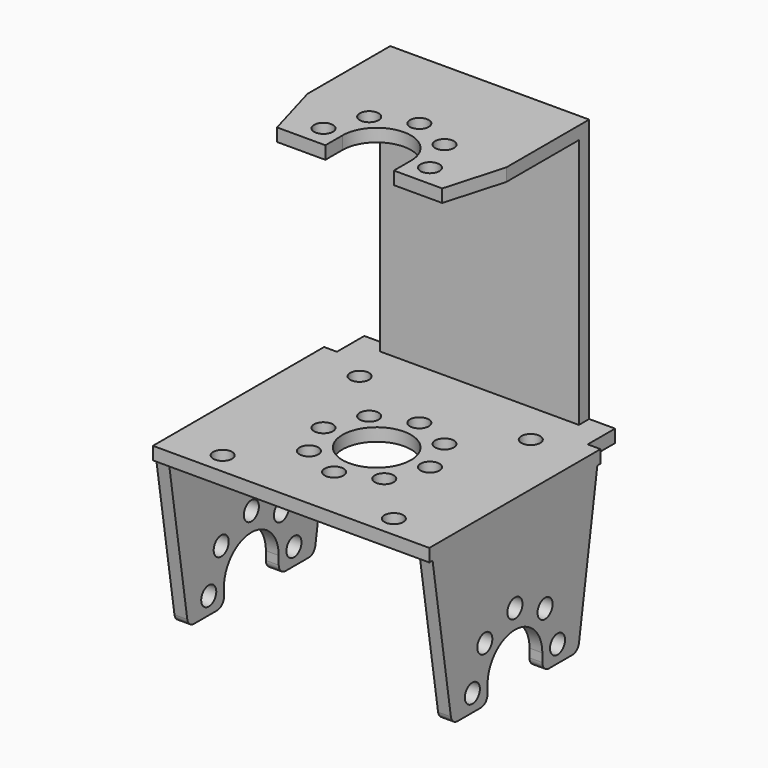
from build123d import *

# Parameters (mm, degrees)
F1_DEPTH  = 25
F2_R      = 1.1
F3_DEPTH  = 32.301
F4_R      = 1.1
F4_R_2    = 4
F5_DEPTH  = 1.5
F6_R      = 1
F7_W      = 29.3
F7_H      = 1.5
F8_DEPTH  = 4
F9_W      = 29.3
F9_H      = 1.5
F10_DEPTH = 30.8
F11_W     = 29.3
F11_H     = 1.5
F12_DEPTH = 20
F13_R     = 1.1
F14_DEPTH = 1.5
F16_DEPTH = 30.8


with BuildPart() as f1:
    # F0 (on Front) → F1 (new body)
    with BuildSketch(Plane.XZ):
        Polygon((0, 19.5), (0, 0), (1.5, 0), (1.5, 18), (30.8, 18), (30.8, 0), (32.3, 0), (32.3, 19.5), align=None)
    extrude(amount=F1_DEPTH)

    # F2 (on face) → F3 (cut, through all)
    with BuildSketch(Plane(origin=(0, 0, 0), x_dir=(0, -1, 0), z_dir=(-1, 0, 0))):
        with BuildLine():
            Line((16.5, 0), (16.5, 2))
            ThreePointArc((16.5, 2), (12.5, 6), (8.5, 2))
            Line((8.5, 2), (8.5, 0))
            Line((8.5, 0), (16.5, 0))
        make_face()
        with Locations((18.7225396744, 2)):
            Circle(F2_R)
        with Locations((16.9, 6.4)):
            Circle(F2_R)
        with Locations((12.5, 8.2225396744)):
            Circle(F2_R)
        with Locations((8.1, 6.4)):
            Circle(F2_R)
        with Locations((6.2774603256, 2)):
            Circle(F2_R)
        Polygon((0, 0), (3.2774603256, 0), (0.4682086179, 18), (0, 18), align=None)
        Polygon((21.7225396744, 0), (25, 0), (25, 18), (24.5317913821, 18), align=None)
    extrude(amount=-F3_DEPTH, mode=Mode.SUBTRACT)

    # F4 (on face) → F5 (cut, through all)
    with BuildSketch(Plane.XY.offset(19.5)):
        with Locations((6.15, -2.5)):
            Circle(F4_R)
        with Locations((26.15, -2.5)):
            Circle(F4_R)
        with Locations((6.15, -22.5)):
            Circle(F4_R)
        with Locations((26.15, -22.5)):
            Circle(F4_R)
        with Locations((16.15, -12.5)):
            Circle(F4_R_2)
        with Locations((11.75, -8.1)):
            Circle(F4_R)
        with Locations((9.9274603256, -12.5)):
            Circle(F4_R)
        with Locations((11.75, -16.9)):
            Circle(F4_R)
        with Locations((16.15, -18.7225396744)):
            Circle(F4_R)
        with Locations((20.55, -16.9)):
            Circle(F4_R)
        with Locations((22.3725396744, -12.5)):
            Circle(F4_R)
        with Locations((20.55, -8.1)):
            Circle(F4_R)
        with Locations((16.15, -6.2774603256)):
            Circle(F4_R)
    extrude(amount=-F5_DEPTH, mode=Mode.SUBTRACT)

    # F6
    f6_edges = [f1.edges().sort_by_distance(p)[0] for p in [
        (31.55, -3.27746, 0),
        (0.75, -3.27746, 0),
        (31.55, -8.5, 0),
        (0.75, -8.5, 0),
        (31.55, -16.5, 0),
        (0.75, -16.5, 0),
        (31.55, -21.72254, 0),
        (0.75, -21.72254, 0),
    ]]
    fillet(f6_edges, radius=F6_R)

    # F7 (on face) → F8 (join)
    with BuildSketch(Plane(origin=(0, 0, 0), x_dir=(-1, 0, 0), z_dir=(0, 1, 0))):
        with Locations((-16.15, 18.75)):
            Rectangle(F7_W, F7_H)
    extrude(amount=F8_DEPTH)

    # F9 (on face) → F10 (join)
    with BuildSketch(Plane.XY.offset(19.5)):
        with Locations((16.15, 3.25)):
            Rectangle(F9_W, F9_H)
    extrude(amount=F10_DEPTH)

    # F11 (on face) → F12 (join)
    with BuildSketch(Plane.XZ.offset(-2.5)):
        with Locations((16.15, 49.55)):
            Rectangle(F11_W, F11_H)
    extrude(amount=F12_DEPTH)

    # F13 (on face) → F14 (cut, through all)
    with BuildSketch(Plane(origin=(0, 0, 48.8), x_dir=(1, 0, 0), z_dir=(0, 0, -1))):
        with Locations((9.9274603256, 12.5)):
            Circle(F13_R)
        with Locations((11.75, 8.1)):
            Circle(F13_R)
        with Locations((16.15, 6.2774603256)):
            Circle(F13_R)
        with Locations((20.55, 8.1)):
            Circle(F13_R)
        with Locations((22.3725396744, 12.5)):
            Circle(F13_R)
        with BuildLine():
            Line((12.15, 15), (12.15, 12.5))
            ThreePointArc((12.15, 12.5), (16.15, 8.5), (20.15, 12.5))
            Line((20.15, 12.5), (20.15, 15))
            Line((20.15, 15), (25.8, 15))
            Line((25.8, 15), (30.8, -2.5))
            Line((30.8, -2.5), (30.8, 17.5))
            Line((30.8, 17.5), (1.5, 17.5))
            Line((1.5, 17.5), (1.5, -2.5))
            Line((1.5, -2.5), (6.5, 15))
            Line((6.5, 15), (12.15, 15))
        make_face()
    extrude(amount=-F14_DEPTH, mode=Mode.SUBTRACT)

    # F15 (on face) → F16 (cut)
    with BuildSketch(Plane.XY.offset(50.3)):
        Polygon((1.5, 2.5), (4.5285714286, -8.1), (4.5285714286, 4), (1.5, 4), align=None)
        Polygon((30.8, 4), (27.7714285714, 4), (27.7714285714, -8.1), (30.8, 2.5), align=None)
    extrude(amount=-F16_DEPTH, mode=Mode.SUBTRACT)


solid = f1.part
